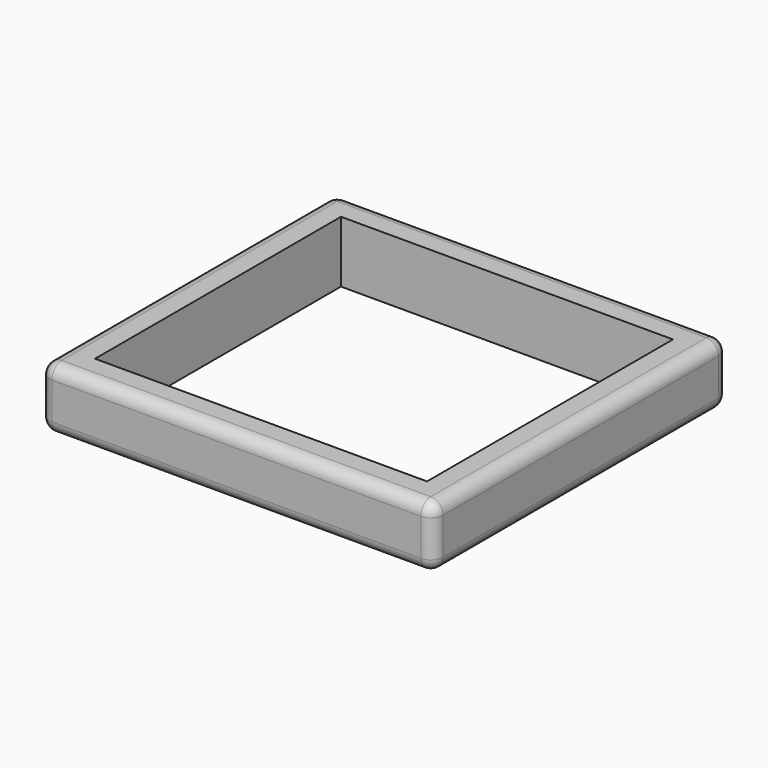
from build123d import *

# Parameters (mm, degrees)
F0_W     = 812.8
F0_H     = 762
F2_DEPTH = 127
F1_W     = 685.8
F1_H     = 635
F3_DEPTH = 215.9
F4_R     = 25.4


with BuildPart() as f2:
    # F0 (on Top) → F2 (new body)
    with BuildSketch(Plane.XY):
        Rectangle(F0_W, F0_H)
    extrude(amount=F2_DEPTH)

    # F1 (on face) → F3 (cut)
    with BuildSketch(Plane.XY):
        Rectangle(F1_W, F1_H)
    extrude(amount=F3_DEPTH, mode=Mode.SUBTRACT)

    # F4
    f4_edges = [f2.edges().sort_by_distance(p)[0] for p in [
        (406.4, 0, 127),
        (0, 381, 127),
        (-406.4, 0, 127),
        (0, -381, 127),
        (-406.4, 0, 0),
        (-406.4, -381, 63.5),
        (-406.4, 381, 63.5),
        (406.4, -381, 63.5),
        (406.4, 381, 63.5),
        (406.4, 0, 0),
        (0, 381, 0),
        (0, -381, 0),
    ]]
    fillet(f4_edges, radius=F4_R)


solid = f2.part
